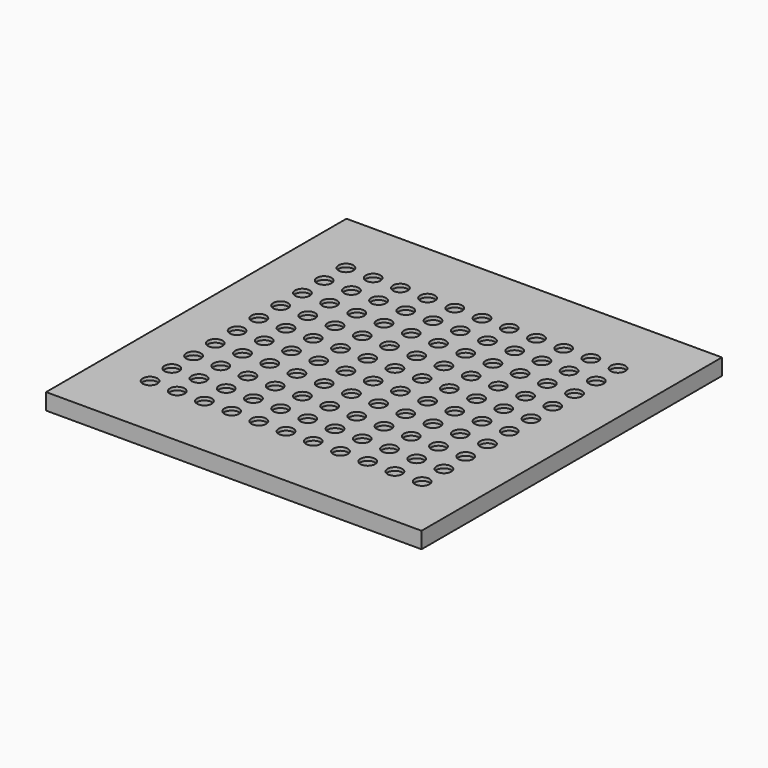
from build123d import *

# Parameters (mm, degrees)
CYLINDER001_R     = 4.5
CYLINDER001_DEPTH = 10
CYLINDER_R        = 7.5
CYLINDER_DEPTH    = 8
ARRAY_X_COUNT     = 11
ARRAY_X_PITCH     = 16.67
ARRAY_Y_COUNT     = 10
ARRAY_Y_PITCH     = 16.67
BOX_W             = 230
BOX_H             = 230
BOX_DEPTH         = 10


with BuildPart() as zylinder001:
    # Cylinder001 → Cylinder001 (new body)
    with BuildSketch(Plane(origin=(31.6667, 40, 0), x_dir=(1, 0, 0), z_dir=(0, 0, 1))):
        Circle(CYLINDER001_R)
    extrude(amount=CYLINDER001_DEPTH)


with BuildPart() as fusion:
    # Cylinder → Cylinder (new body)
    with BuildSketch(Plane(origin=(31.6667, 40, 0), x_dir=(1, 0, 0), z_dir=(0, 0, 1))):
        Circle(CYLINDER_R)
    extrude(amount=CYLINDER_DEPTH)

    # Fusion: union Zylinder001
    add(zylinder001.part)


with BuildPart() as array:
    # Array base: copy of Fusion
    add(fusion.part)

    # Array X: Array ×11


with BuildPart() as array_1:
    add(array.part)
    with Locations(*[(i * ARRAY_X_PITCH, 0, 0) for i in range(1, ARRAY_X_COUNT)]):
        add(array.part)

    # Array Y: Array ×10


with BuildPart() as array_2:
    add(array_1.part)
    with Locations(*[(0, i * ARRAY_Y_PITCH, 0) for i in range(1, ARRAY_Y_COUNT)]):
        add(array_1.part)


with BuildPart() as cut001:
    # Box → Box (new body)
    with BuildSketch(Plane.XY):
        with Locations((115, 115)):
            Rectangle(BOX_W, BOX_H)
    extrude(amount=BOX_DEPTH)

    # Cut: cut Fusion
    add(fusion.part, mode=Mode.SUBTRACT)

    # Cut001: cut Array
    add(array_2.part, mode=Mode.SUBTRACT)


solid = cut001.part
